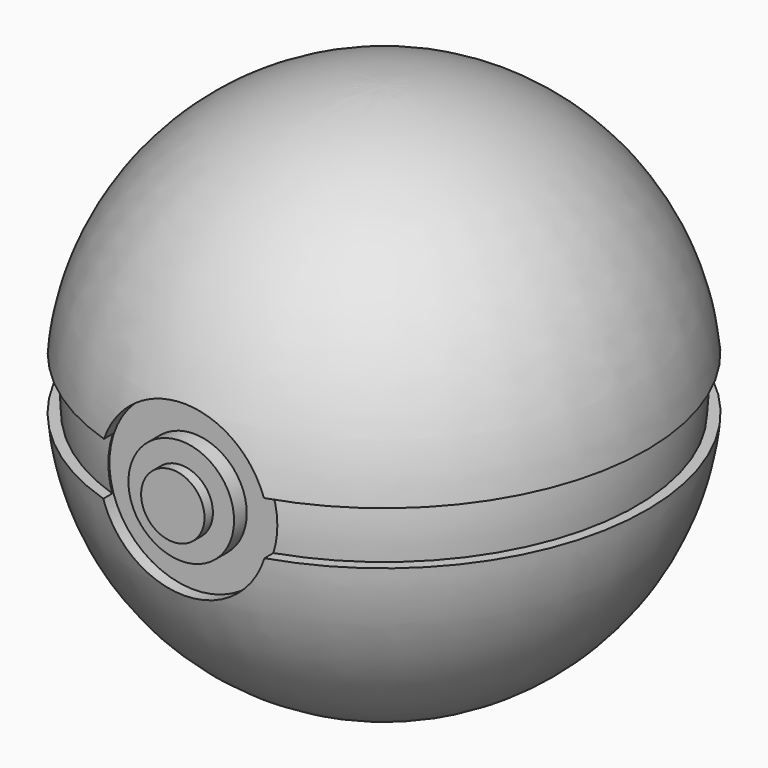
from build123d import *

# Parameters (mm, degrees)
F3_R     = 8
F4_DEPTH = 2.5
F5_R     = 5
F6_DEPTH = 24
F7_R     = 3
F8_DEPTH = 25


with BuildPart() as f1:
    # F0 (on Front) → F1 (revolve)
    with BuildSketch(Plane.XZ):
        with BuildLine():
            Line((0, -25), (0, 25))
            ThreePointArc((0, 25), (-16.738842, 18.569092), (-24.866007, 2.584893))
            Line((-24.866007, 2.584893), (-23.860392, 2.584893))
            ThreePointArc((-23.860392, 2.584893), (-23.999848, 0.085357), (-23.878175, -2.415107))
            Line((-23.878175, -2.415107), (-24.883072, -2.415107))
            ThreePointArc((-24.883072, -2.415107), (-16.802118, -18.511857), (0, -25))
        make_face()
    revolve(axis=Axis((0, 0, 0), (0, 0, -1)))

    # F3 (on offset) → F4 (cut, symmetric)
    with BuildSketch(Plane.XZ.offset(25)):
        Circle(F3_R)
    extrude(amount=F4_DEPTH, both=True, mode=Mode.SUBTRACT)

    # F5 (on Front) → F6 (join)
    with BuildSketch(Plane.XZ):
        Circle(F5_R)
    extrude(amount=F6_DEPTH)

    # F7 (on Front) → F8 (join)
    with BuildSketch(Plane.XZ):
        Circle(F7_R)
    extrude(amount=F8_DEPTH)


solid = f1.part
